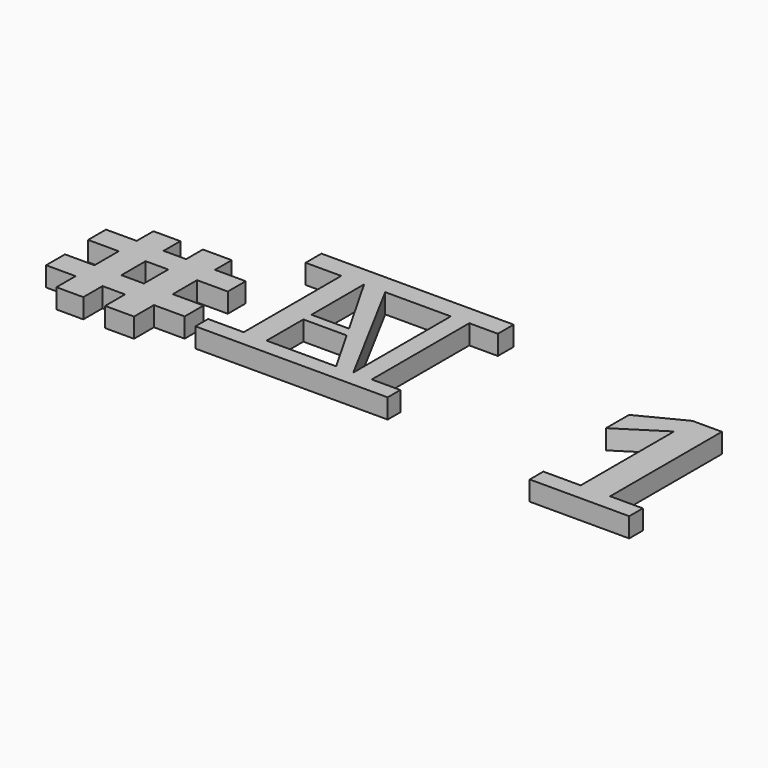
from build123d import *

# Parameters (mm, degrees)
F0_W      = 59.3109130859
F0_H      = 315.944686532
F1_DEPTH  = 50.8
F2_W      = 47.9049701244
F2_H      = 315.944686532
F3_DEPTH  = 2.54
F4_DEPTH  = 50.8
F5_W      = 69.7591304779
F5_H      = 54.2430207133
F5_H_2    = 58.1001080573
F5_W_2    = 79.5288085938
F5_W_3    = 74.8479366302
F5_W_4    = 58.4374070168
F5_W_5    = 79.7038674355
F5_H_3    = 78.646697104
F5_H_4    = 61.1479729414
F5_H_5    = 64.4819140434
F5_H_6    = 62.1507763863
F5_W_6    = 76.5372514725
F6_DEPTH  = 50.8
F8_DEPTH  = 50.8
F11_DEPTH = 50.8


with BuildPart() as f1:
    # F0 (on Top) → F1 (new body)
    with BuildSketch(Plane.XY):
        Polygon((317.2763288021, 86.8562683463), (-405.860632658, 86.8562683463), (-405.860632658, 35.5295091867), (-313.4724795818, 35.5295091867), (-254.1615664959, 35.5295091867), (317.2763288021, 35.5295091867), align=None)
        with Locations((-283.8170230389, -122.4428340793)):
            Rectangle(F0_W, F0_H)
        Polygon((-254.1615664959, -280.4151773453), (-313.4724795818, -280.4151773453), (-405.860632658, -280.4151773453), (-405.860632658, -321.4765787125), (329.8228383064, -321.4765787125), (329.8228383064, -280.4151773453), align=None)
    extrude(amount=F1_DEPTH)

    # F2 (on face) → F3 (join)
    with BuildSketch(Plane.XY.offset(50.8)):
        Polygon((-141.8810272457, -161.3167375326), (-156.8449797478, -135.0824683905), (-254.1615664959, -135.0824683905), (-254.1615664959, -161.3167375326), align=None)
        Polygon((-199.4130164385, 35.5295091867), (-254.1615664959, 35.5295091867), (-156.8449797478, -135.0824683905), (-141.8810272457, -161.3167375326), (-73.9476159215, -280.4151773453), (-29.4644292444, -280.4151773453), align=None)
        with Locations((-5.5119441822, -122.4428340793)):
            Rectangle(F2_W, F2_H)
    extrude(amount=-F3_DEPTH)

    # F4 (add): faces of the model
    f4_faces = [f1.faces().sort_by_distance(p)[0] for p in [
        (-5.5119441822, -122.4428340793, 48.26),
        (-44.2921519279, 78.4421974919, 50.8),
    ]]
    extrude(f4_faces, amount=F4_DEPTH, dir=(0, 0, -1))


with BuildPart() as f6:
    # F5 (on Top) → F6 (new body)
    with BuildSketch(Plane.XY):
        with Locations((-758.7992548943, 0.0328049064)):
            Rectangle(F5_W, F5_H)
        with Locations((-758.7992548943, -56.1387594789)):
            Rectangle(F5_W, F5_H_2)
        with Locations((-833.4432244301, -56.1387594789)):
            Rectangle(F5_W_2, F5_H_2)
        with Locations((-628.0583143234, -56.1387594789)):
            Rectangle(F5_W_3, F5_H_2)
        with Locations((-628.0583143234, 0.0328049064)):
            Rectangle(F5_W_3, F5_H)
        with Locations((-694.7009861469, -56.1387594789)):
            Rectangle(F5_W_4, F5_H_2)
        with Locations((-550.7824122906, -56.1387594789)):
            Rectangle(F5_W_5, F5_H_2)
        with Locations((-628.0583143234, -124.5121620595)):
            Rectangle(F5_W_3, F5_H_3)
        with Locations((-628.0583143234, -194.4094970822)):
            Rectangle(F5_W_3, F5_H_4)
        with Locations((-550.7824122906, -194.4094970822)):
            Rectangle(F5_W_5, F5_H_4)
        with Locations((-628.0583143234, -257.2244405746)):
            Rectangle(F5_W_3, F5_H_5)
        with Locations((-694.7009861469, -194.4094970822)):
            Rectangle(F5_W_4, F5_H_4)
        with Locations((-758.7992548943, -256.0588717461)):
            Rectangle(F5_W, F5_H_6)
        with Locations((-758.7992548943, -194.4094970822)):
            Rectangle(F5_W, F5_H_4)
        with Locations((-831.9474458694, -194.4094970822)):
            Rectangle(F5_W_6, F5_H_4)
        with Locations((-758.7992548943, -124.5121620595)):
            Rectangle(F5_W, F5_H_3)
    extrude(amount=F6_DEPTH)


with BuildPart() as f8:
    # F7 (on Top) → F8 (new body)
    with BuildSketch(Plane.XY):
        Polygon((654.2241573334, 59.5809501186), (577.7968168259, 59.5809501186), (577.7968168259, 0), (577.7968168259, -302.5620281696), (654.2241573334, -302.5620281696), align=None)
        Polygon((738.8895750046, -302.5620281696), (654.2241573334, -302.5620281696), (577.7968168259, -302.5620281696), (481.0267984867, -302.5620281696), (481.0267984867, -346.7342216172), (738.8895750046, -346.7342216172), align=None)
        Polygon((577.7968168259, 0), (577.7968168259, 59.5809501186), (461.1376523972, 0), (461.1376523972, -74.5469406247), align=None)
    extrude(amount=F8_DEPTH)


with BuildPart() as f11:
    # F9 (on face) → F11 (new body)
    with BuildSketch(Plane.XY.offset(50.8)):
        Polygon((92.5298333168, 35.5295091867), (92.5298333168, 86.8562683463), (-405.860632658, 86.8562683463), (-405.860632658, 35.5295091867), (-313.4724795818, 35.5295091867), (-313.4724795818, -280.4151773453), (-405.860632658, -280.4151773453), (-405.860632658, -321.4765787125), (92.5298333168, -321.4765787125), (92.5298333168, -280.4151773453), (18.44054088, -280.4151773453), (18.44054088, 35.5295091867), align=None)
        Polygon((-141.8810272457, -161.3167375326), (-73.9476159215, -280.4151773453), (-254.1615664959, -280.4151773453), (-254.1615664959, -161.3167375326), align=None, mode=Mode.SUBTRACT)
        Polygon((-29.4644292444, -280.4151773453), (-199.4130164385, 35.5295091867), (-29.4644292444, 35.5295091867), align=None, mode=Mode.SUBTRACT)
        Polygon((-156.8449797478, -135.0824683905), (-254.1615664959, -135.0824683905), (-254.1615664959, 35.5295091867), align=None, mode=Mode.SUBTRACT)
    extrude(amount=F11_DEPTH)


solid = Compound([f6.part, f8.part, f11.part])
